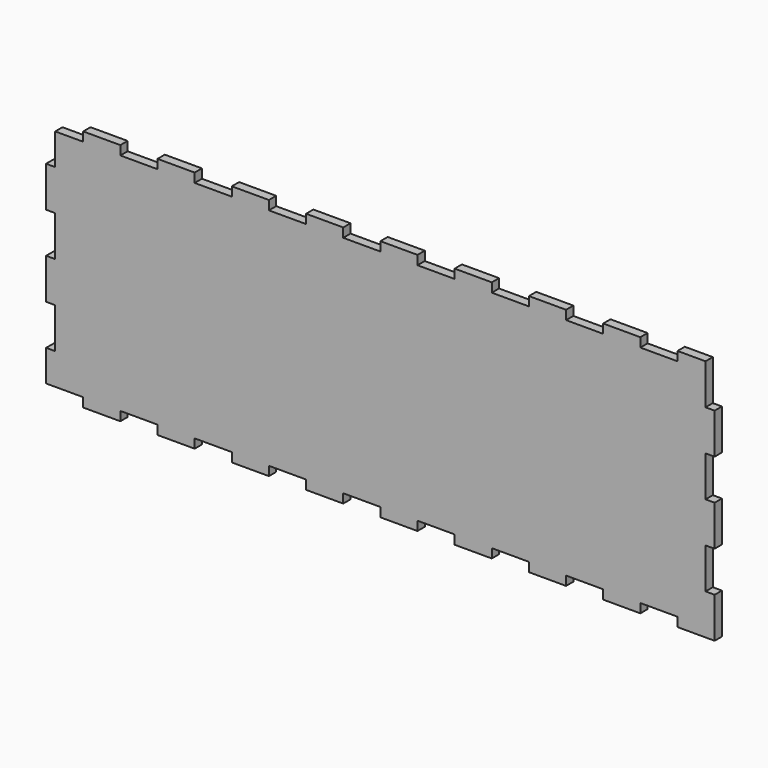
from build123d import *

# Parameters (mm, degrees)
F1_DEPTH = 3


with BuildPart() as f1:
    # F0 (on Front) → F1 (new body)
    with BuildSketch(Plane.XZ):
        Polygon((97.778, -40), (110, -40), (110, -26.6667), (107, -26.6667), (107, -13.3334), (110, -13.3334), (110, -0.0001), (107, -0.0001), (107, 0.0001), (107, 13.3334), (110, 13.3334), (110, 26.6667), (107, 26.6667), (107, 40), (97.778, 40), (97.778, 37), (85.556, 37), (85.556, 40), (73.334, 40), (73.334, 37), (61.112, 37), (61.112, 40), (48.89, 40), (48.89, 37), (36.668, 37), (36.668, 40), (24.446, 40), (24.446, 37), (12.224, 37), (12.224, 40), (0.002, 40), (0.002, 37), (-0.002, 37), (-12.224, 37), (-12.224, 40), (-24.446, 40), (-24.446, 37), (-36.668, 37), (-36.668, 40), (-48.89, 40), (-48.89, 37), (-61.112, 37), (-61.112, 40), (-73.334, 40), (-73.334, 37), (-85.556, 37), (-85.556, 40), (-97.778, 40), (-97.778, 37), (-107, 37), (-107, 26.6667), (-110, 26.6667), (-110, 13.3334), (-107, 13.3334), (-107, 0.0001), (-107, -0.0001), (-110, -0.0001), (-110, -13.3334), (-107, -13.3334), (-107, -26.6667), (-110, -26.6667), (-110, -37), (-97.778, -37), (-97.778, -40), (-85.556, -40), (-85.556, -37), (-73.334, -37), (-73.334, -40), (-61.112, -40), (-61.112, -37), (-48.89, -37), (-48.89, -40), (-36.668, -40), (-36.668, -37), (-24.446, -37), (-24.446, -40), (-12.224, -40), (-12.224, -37), (-0.002, -37), (0.002, -37), (0.002, -40), (12.224, -40), (12.224, -37), (24.446, -37), (24.446, -40), (36.668, -40), (36.668, -37), (48.89, -37), (48.89, -40), (61.112, -40), (61.112, -37), (73.334, -37), (73.334, -40), (85.556, -40), (85.556, -37), (97.778, -37), align=None)
    extrude(amount=F1_DEPTH)


solid = f1.part
